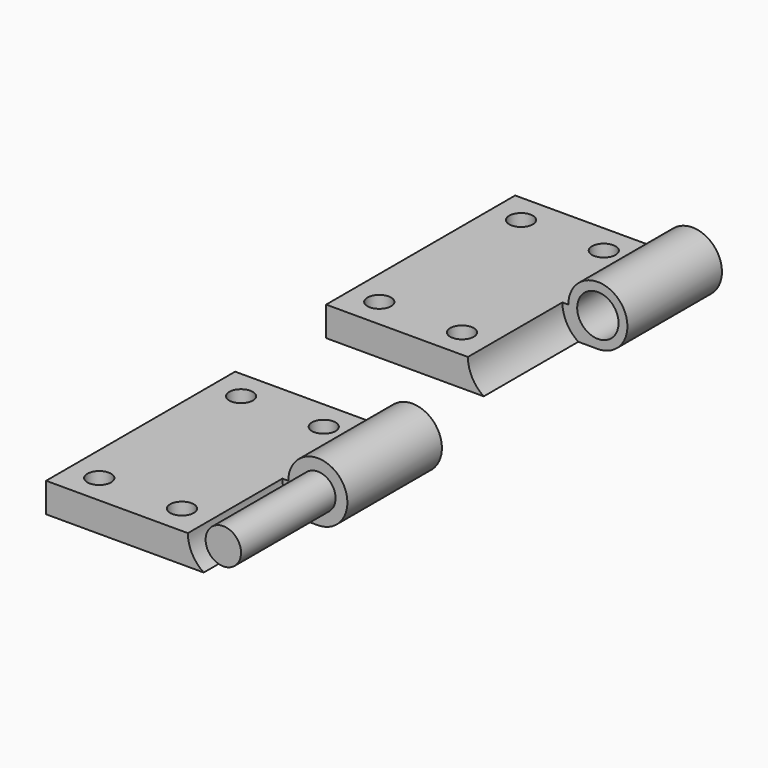
from build123d import *

# Parameters (mm, degrees)
PAD_DEPTH       = 20
SKETCH001_R     = 6
POCKET_DEPTH    = 20
SKETCH004_R     = 2
POCKET002_DEPTH = 5.001
SKETCH002_R     = 3.5
POCKET001_DEPTH = 20.001
SKETCH003_R     = 3
PAD001_DEPTH    = 20


with BuildPart() as hingetemplatebody:
    # Sketch → Pad (new body, symmetric)
    with BuildSketch(Plane.XZ):
        with BuildLine():
            ThreePointArc((0, -5), (3.535534, 3.535534), (-5, 0))
            Line((-30, 0), (-5, 0))
            Line((-30, -5), (-30, 0))
            Line((0, -5), (-30, -5))
        make_face()
    extrude(amount=PAD_DEPTH, both=True)

    # Sketch001 (on Face6 of Pad) → Pocket (cut)
    with BuildSketch(Plane.XZ.offset(20)):
        Circle(SKETCH001_R)
    extrude(amount=-POCKET_DEPTH, mode=Mode.SUBTRACT)

    # Sketch004 (on Face3 of Pocket) → Pocket002 (cut, through all)
    with BuildSketch(Plane(origin=(0, 0, 0), x_dir=(-1, 0, 0), z_dir=(0, 0, 1))):
        with Locations((11, -15)):
            Circle(SKETCH004_R)
        with Locations((25, -15)):
            Circle(SKETCH004_R)
        with Locations((25, 15)):
            Circle(SKETCH004_R)
        with Locations((11, 15)):
            Circle(SKETCH004_R)
    extrude(amount=-POCKET002_DEPTH, mode=Mode.SUBTRACT)


with BuildPart() as femalehingebody:
    # Body001 base: copy of HingeTemplateBody
    add(hingetemplatebody.part)

    # Sketch002 (on Face4 of Clone) → Pocket001 (cut, through all)
    with BuildSketch(Plane.XZ):
        Circle(SKETCH002_R)
    extrude(amount=-POCKET001_DEPTH, mode=Mode.SUBTRACT)


with BuildPart() as femalehingebody_1:
    # Body001 placement: moved
    add(femalehingebody.part.moved(Location((45.6, 0, 0))))


with BuildPart() as obj1:
    # Body002 base: copy of HingeTemplateBody
    add(hingetemplatebody.part)

    # Sketch003 (on Face4 of Clone001) → Pad001 (new body)
    with BuildSketch(Plane.XZ):
        Circle(SKETCH003_R)
    extrude(amount=PAD001_DEPTH)


with BuildPart() as obj1_1:
    # Body002 placement: moved
    add(obj1.part.moved(Location((48.2, -62.5, 0))))


solid = Compound([femalehingebody_1.part, obj1_1.part])
